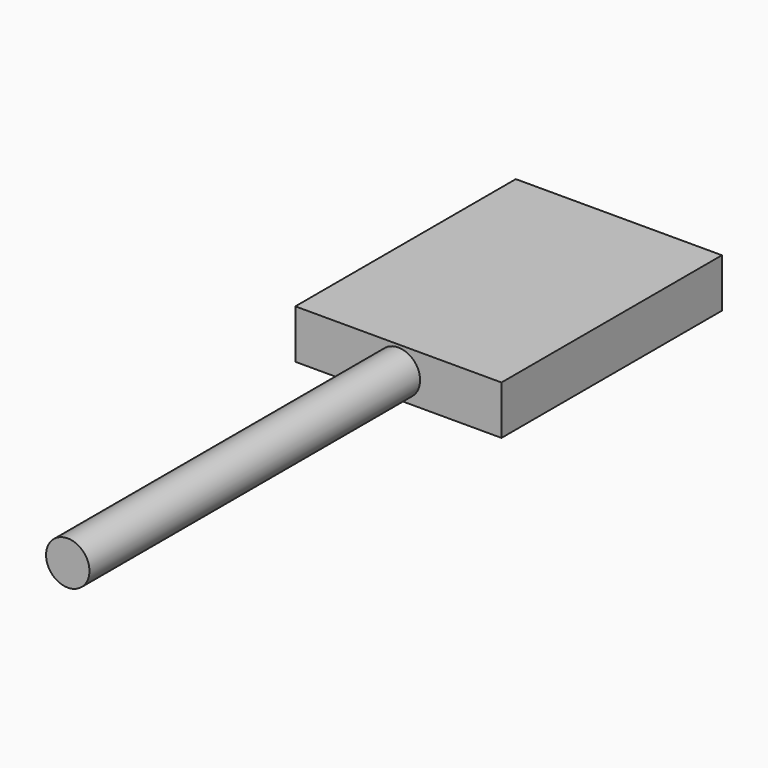
from build123d import *

# Parameters (mm, degrees)
F0_R     = 1
F1_DEPTH = 19.05
F2_W     = 9.5
F2_H     = 2.25
F3_DEPTH = 12.7


with BuildPart() as f1:
    # F0 (on Front) → F1 (new body)
    with BuildSketch(Plane.XZ):
        Circle(F0_R)
        Circle(F0_R)
    extrude(amount=F1_DEPTH)

    # F2 (on face) → F3 (join)
    with BuildSketch(Plane(origin=(0, 0, 0), x_dir=(-1, 0, 0), z_dir=(0, 1, 0))):
        Rectangle(F2_W, F2_H)
    extrude(amount=F3_DEPTH)


solid = f1.part
